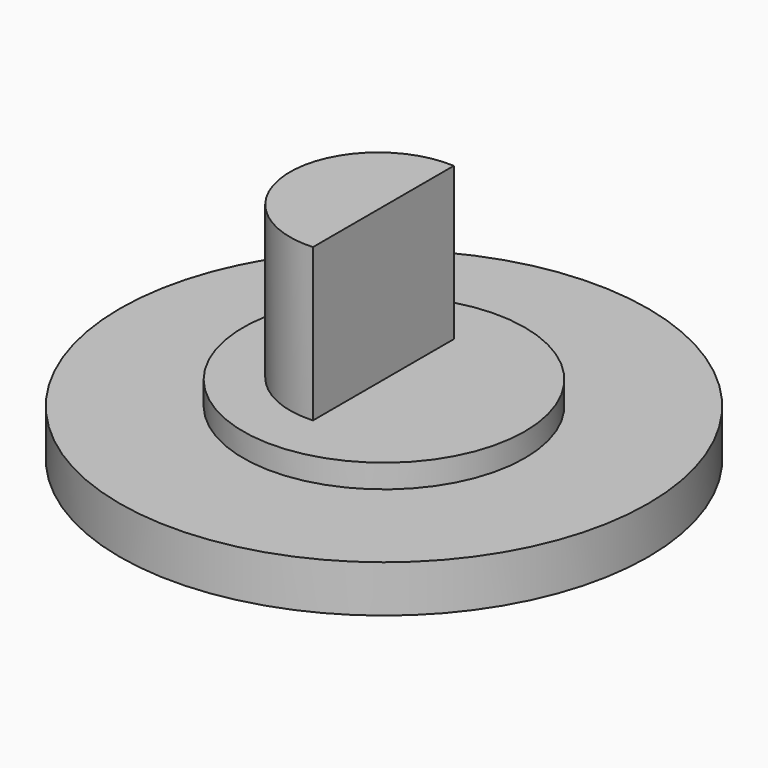
from build123d import *

# Parameters (mm, degrees)
F0_R     = 11.25
F1_DEPTH = 2
F2_R     = 6
F3_DEPTH = 1
F6_DEPTH = 6.5
F7_DEPTH = 6


with BuildPart() as f1:
    # F0 (on Top) → F1 (new body)
    with BuildSketch(Plane.XY):
        Circle(F0_R)
    extrude(amount=F1_DEPTH)

    # F2 (on face) → F3 (join)
    with BuildSketch(Plane.XY.offset(2)):
        Circle(F2_R)
    extrude(amount=F3_DEPTH)

    # F5 (on face) → F6 (join)
    with BuildSketch(Plane.XY.offset(3)):
        with BuildLine():
            ThreePointArc((0, 3.716564), (-3.978639, -0.033436), (0, -3.783436))
            Line((0, -3.783436), (0, 3.716564))
        make_face()
    extrude(amount=F6_DEPTH)

    # F5 (on face) → F7 (join)
    with BuildSketch(Plane.XY.offset(3)):
        with BuildLine():
            ThreePointArc((0, 3.716564), (-3.978639, -0.033436), (0, -3.783436))
            Line((0, -3.783436), (0, 3.716564))
        make_face()
    extrude(amount=F7_DEPTH)


solid = f1.part
